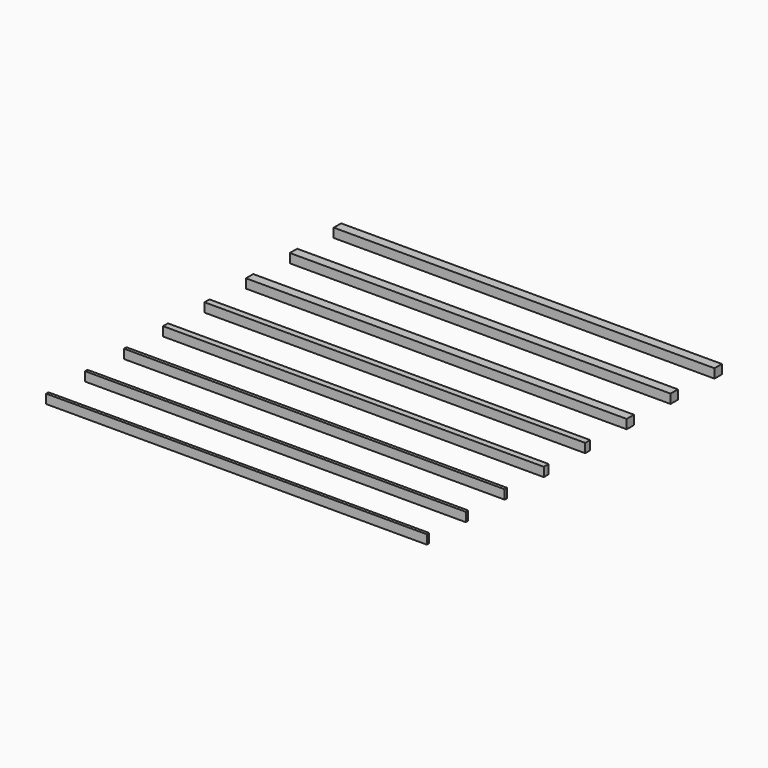
from build123d import *

# Parameters (mm, degrees)
F0_W     = 50
F0_H     = 0.39
F0_H_2   = 0.4
F0_H_3   = 0.41
F0_H_4   = 0.8
F0_H_5   = 0.81
F0_H_6   = 1.2
F0_H_7   = 1.21
F0_H_8   = 1.22
F1_DEPTH = 1.2


with BuildPart() as f1:
    # F0 (on Top) → F1 (new body)
    with BuildSketch(Plane.XY):
        with Locations((25, 0.195)):
            Rectangle(F0_W, F0_H)
        with Locations((25, 6.59)):
            Rectangle(F0_W, F0_H_2)
        with Locations((25, 12.995)):
            Rectangle(F0_W, F0_H_3)
        with Locations((25, 19.6)):
            Rectangle(F0_W, F0_H_4)
        with Locations((25, 26.405)):
            Rectangle(F0_W, F0_H_5)
        with Locations((25, 33.41)):
            Rectangle(F0_W, F0_H_6)
        with Locations((25, 40.615)):
            Rectangle(F0_W, F0_H_7)
        with Locations((25, 47.83)):
            Rectangle(F0_W, F0_H_8)
    extrude(amount=F1_DEPTH)


solid = f1.part
